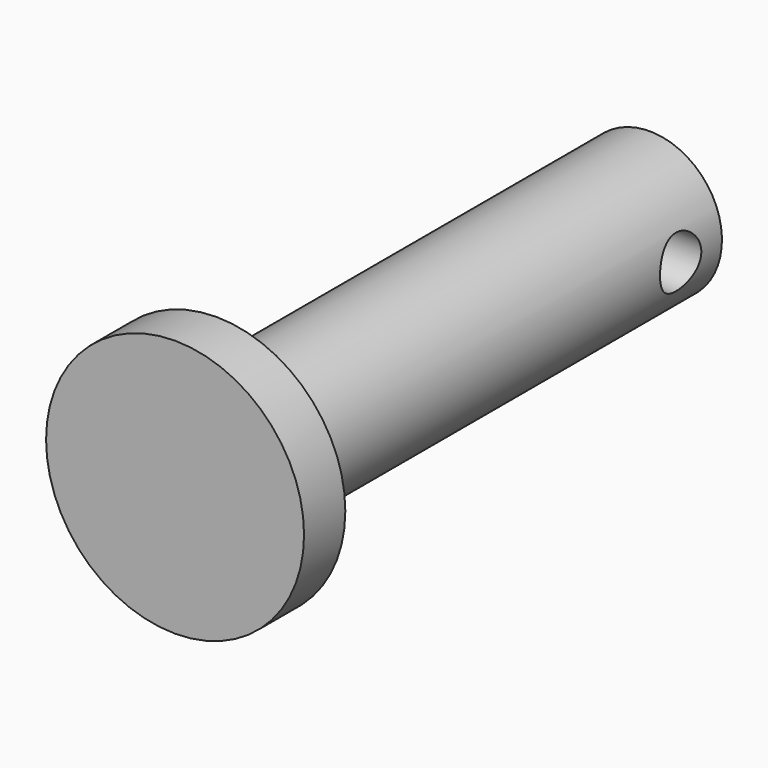
from build123d import *

# Parameters (mm, degrees)
SKETCH031_R                   = 1
PAD031_DEPTH                  = 10
CYLINDER045_R                 = 2.8
CYLINDER045_DEPTH             = 21
CYLINDER046_R                 = 5
CYLINDER046_DEPTH             = 2
CUT029_ROLL_ANGLE             = 90
PART_MIRRORING007_PITCH_ANGLE = 90


with BuildPart() as pad031:
    # Sketch031 → Pad031 (new body)
    with BuildSketch(Plane(origin=(0, 4.2, 21), x_dir=(1, 0, 0), z_dir=(0, -1, 0))):
        Circle(SKETCH031_R)
    extrude(amount=PAD031_DEPTH)


with BuildPart() as eje003:
    # Cylinder045 → Cylinder045 (new body)
    with BuildSketch(Plane.XY.offset(2)):
        Circle(CYLINDER045_R)
    extrude(amount=CYLINDER045_DEPTH)


with BuildPart() as eje_full003:
    # Cylinder046 → Cylinder046 (new body)
    with BuildSketch(Plane.XY):
        Circle(CYLINDER046_R)
    extrude(amount=CYLINDER046_DEPTH)

    # Fusion009003039: union Eje003
    add(eje003.part)

    # Cut029: cut Pad031
    add(pad031.part, mode=Mode.SUBTRACT)


with BuildPart() as eje_full003_1:
    # Cut029 roll: moved
    add(eje_full003.part.rotate(Axis((0, 0, 0), (1, 0, 0)), CUT029_ROLL_ANGLE))


with BuildPart() as eje_full003_2:
    # Cut029 placement: moved
    add(eje_full003_1.part.moved(Location((14, 13, 8.5))))


with BuildPart() as part_mirroring007:
    # Part__Mirroring007: instance of Eje_full003
    add(eje_full003_2.part.mirror(Plane(origin=(0, 0, 0), x_dir=(1, 0, 0), z_dir=(0, 1, 0))))


with BuildPart() as part_mirroring007_1:
    # Part__Mirroring007 pitch: moved
    add(part_mirroring007.part.rotate(Axis((0, 0, 0), (0, 1, 0)), PART_MIRRORING007_PITCH_ANGLE))


with BuildPart() as part_mirroring007_2:
    # Part__Mirroring007 placement: moved
    add(part_mirroring007_1.part.moved(Location((359, -63, 326))))


solid = part_mirroring007_2.part
